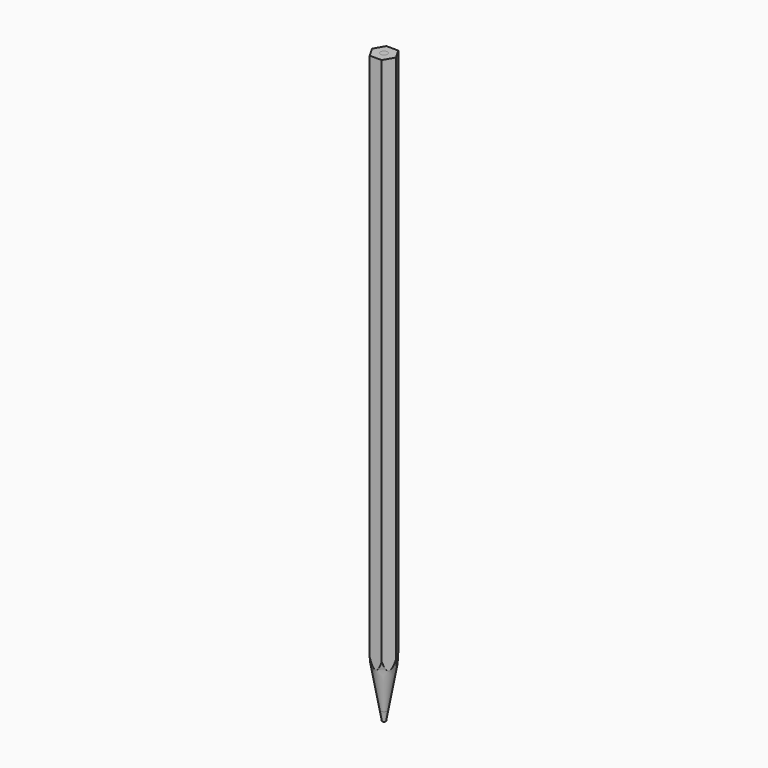
from build123d import *

# Parameters (mm, degrees)
F0_R     = 1
F1_DEPTH = 170
F2_DEPTH = 170


with BuildPart() as f1:
    # F0 (on Top) → F1 (new body)
    with BuildSketch(Plane.XY):
        Polygon((1.732051, 3), (-1.732051, 3), (-3.464102, 0), (-1.732051, -3), (1.732051, -3), (3.464102, 0), align=None)
        Circle(F0_R, mode=Mode.SUBTRACT)
    extrude(amount=F1_DEPTH)


with BuildPart() as f2:
    # F0 (on Top) → F2 (new body)
    with BuildSketch(Plane.XY):
        Circle(F0_R)
    extrude(amount=F2_DEPTH)


with BuildPart() as f4_tool:
    # F3 (on Front) → F4 (revolve)
    with BuildSketch(Plane.XZ):
        Polygon((4.082964, 20.32), (0.5, 0), (4.082964, 0), align=None)
    revolve(axis=Axis((0, 0, -2.013294), (0, 0, -1)))


with BuildPart() as f1_1:
    add(f1.part)

    # F4: cut by f4_tool
    add(f4_tool.part, mode=Mode.SUBTRACT)


with BuildPart() as f2_1:
    add(f2.part)

    # F4: cut by f4_tool
    add(f4_tool.part, mode=Mode.SUBTRACT)


solid = Compound([f1_1.part, f2_1.part])
